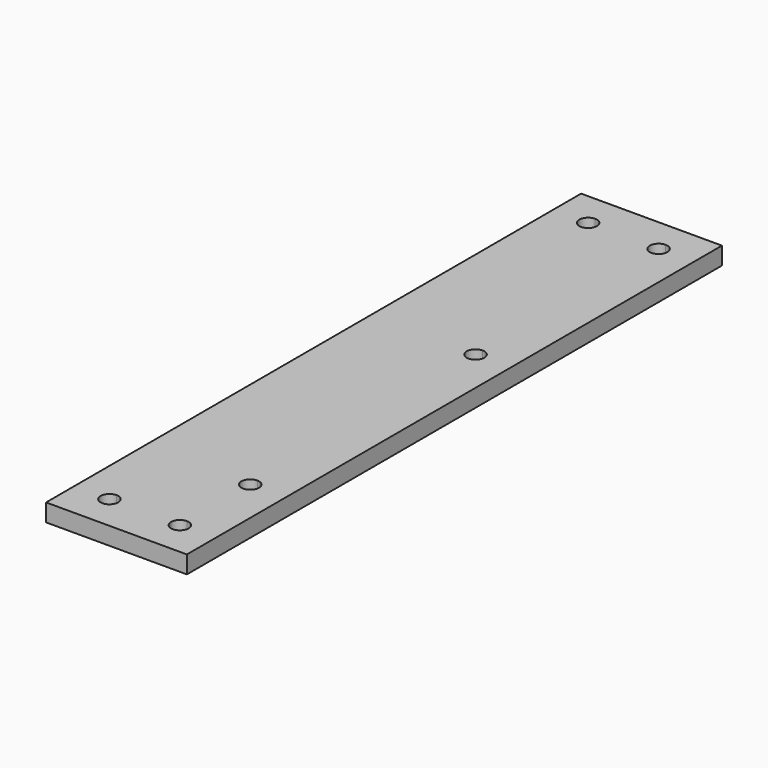
from build123d import *

# Parameters (mm, degrees)
F1_DEPTH = 6.35


with BuildPart() as f1:
    # F0 (on Top) → F1 (new body)
    with BuildSketch(Plane.XY):
        with BuildLine():
            Line((-12.7, 111.125), (-12.7, 120.65))
            Line((-12.7, 120.65), (-25.4, 120.65))
            Line((-25.4, 120.65), (-25.4, -120.65))
            Line((-25.4, -120.65), (-12.7, -120.65))
            Line((-12.7, -120.65), (-12.7, -111.125))
            ThreePointArc((-12.7, -111.125), (-15.875, -107.95), (-12.7, -104.775))
            Line((-12.7, -104.775), (-12.7, 104.775))
            ThreePointArc((-12.7, 104.775), (-15.875, 107.95), (-12.7, 111.125))
        make_face()
        with BuildLine():
            Line((25.4, -107.95), (25.4, 120.65))
            Line((25.4, 120.65), (12.7, 120.65))
            Line((12.7, 120.65), (-12.7, 120.65))
            Line((-12.7, 120.65), (-12.7, 111.125))
            ThreePointArc((-12.7, 111.125), (-10.4549359697, 110.1950640303), (-9.525, 107.95))
            ThreePointArc((-9.525, 107.95), (-10.4549359697, 105.7049359697), (-12.7, 104.775))
            Line((-12.7, 104.775), (-12.7, -104.775))
            ThreePointArc((-12.7, -104.775), (-10.4549359697, -105.7049359697), (-9.525, -107.95))
            Line((-9.525, -107.95), (9.525, -107.95))
            ThreePointArc((9.525, -107.95), (10.4549359697, -105.7049359697), (12.7, -104.775))
            ThreePointArc((12.7, -104.775), (14.9450640303, -105.7049359697), (15.875, -107.95))
            Line((15.875, -107.95), (25.4, -107.95))
        make_face()
        with BuildLine():
            ThreePointArc((15.875, -76.2), (14.9450640303, -78.4450640303), (12.7, -79.375))
            ThreePointArc((12.7, -79.375), (9.525, -76.2), (12.7, -73.025))
            ThreePointArc((12.7, -73.025), (14.9450640303, -73.9549359697), (15.875, -76.2))
        make_face(mode=Mode.SUBTRACT)
        with BuildLine():
            ThreePointArc((15.875, 25.4), (14.9450640303, 23.1549359697), (12.7, 22.225))
            ThreePointArc((12.7, 22.225), (9.525, 25.4), (12.7, 28.575))
            ThreePointArc((12.7, 28.575), (14.9450640303, 27.6450640303), (15.875, 25.4))
        make_face(mode=Mode.SUBTRACT)
        with BuildLine():
            ThreePointArc((15.875, 107.95), (10.4549359697, 105.7049359697), (12.7, 111.125))
            ThreePointArc((12.7, 111.125), (14.9450640303, 110.1950640303), (15.875, 107.95))
        make_face(mode=Mode.SUBTRACT)
        with BuildLine():
            Line((-12.7, -120.65), (12.7, -120.65))
            Line((12.7, -120.65), (12.7, -111.125))
            ThreePointArc((12.7, -111.125), (10.4549359697, -110.1950640303), (9.525, -107.95))
            Line((9.525, -107.95), (-9.525, -107.95))
            ThreePointArc((-9.525, -107.95), (-10.4549359697, -110.1950640303), (-12.7, -111.125))
            Line((-12.7, -111.125), (-12.7, -120.65))
        make_face()
        with BuildLine():
            Line((25.4, -120.65), (25.4, -107.95))
            Line((25.4, -107.95), (15.875, -107.95))
            ThreePointArc((15.875, -107.95), (14.9450640303, -110.1950640303), (12.7, -111.125))
            Line((12.7, -111.125), (12.7, -120.65))
            Line((12.7, -120.65), (25.4, -120.65))
        make_face()
    extrude(amount=F1_DEPTH)


solid = f1.part
